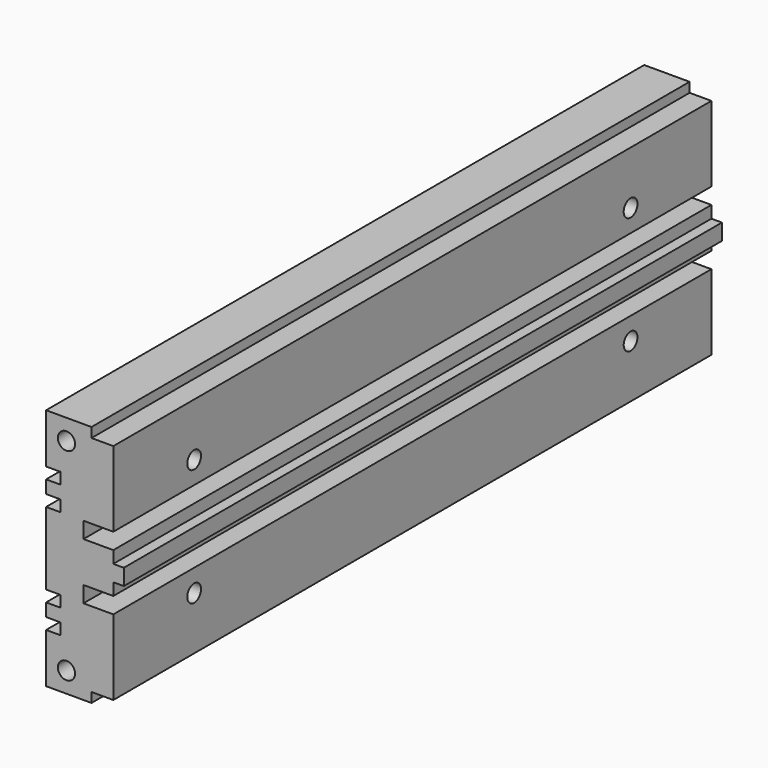
from build123d import *

# Parameters (mm, degrees)
F0_W            = 12.2174
F0_H            = 38.1762
F1_DEPTH        = 117.475
F2_W            = 2.286
F2_H            = 1.778
F3_DEPTH        = 117.476
F5_DEPTH        = 117.476
F7_D            = 2.7051
F10_D           = 2.7051
F10_DEPTH       = 5.55625
F10_TIP         = 0.8126940303
F10_ON_F9_D     = 2.7051
F10_ON_F9_DEPTH = 5.55625
F10_ON_F9_TIP   = 0.8126940303


with BuildPart() as f1:
    # F0 (on Front) → F1 (new body)
    with BuildSketch(Plane.XZ):
        with Locations((6.1087, 19.0881)):
            Rectangle(F0_W, F0_H)
    extrude(amount=F1_DEPTH)

    # F2 (on face) → F3 (cut, through all)
    with BuildSketch(Plane.XZ.offset(117.475)):
        with Locations((1.143, 29.5021)):
            Rectangle(F2_W, F2_H)
        with Locations((1.143, 25.6921)):
            Rectangle(F2_W, F2_H)
        with Locations((1.143, 8.6741)):
            Rectangle(F2_W, F2_H)
        with Locations((1.143, 12.4841)):
            Rectangle(F2_W, F2_H)
    extrude(amount=-F3_DEPTH, mode=Mode.SUBTRACT)

    # F4 (on face) → F5 (cut, through all)
    with BuildSketch(Plane.XZ.offset(117.475)):
        Polygon((10.5664, 20.3581), (12.2174, 20.3581), (12.2174, 38.1762), (7.1374, 38.1762), (7.1374, 36.6522), (10.5664, 36.6522), (10.5664, 24.8031), (5.8674, 24.8031), (5.8674, 22.2631), (10.5664, 22.2631), align=None)
        Polygon((10.5664, 13.3731), (10.5664, 1.524), (7.1374, 1.524), (7.1374, 0), (12.2174, 0), (12.2174, 17.8181), (10.5664, 17.8181), (10.5664, 15.9131), (5.8674, 15.9131), (5.8674, 13.3731), align=None)
    extrude(amount=-F5_DEPTH, mode=Mode.SUBTRACT)

    # F7 (through all)
    with Locations(Plane.XZ.offset(117.475)):
        with Locations((3.2004, 34.9631), (3.2004, 3.2131)):
            Hole(F7_D / 2)

    # F10
    with Locations(Plane.YZ.offset(10.5664)):
        with Locations((-101.6, 28.3083), (-15.875, 28.3083)):
            Hole(F10_D / 2, depth=F10_DEPTH)
            with Locations((0, 0, -(F10_DEPTH + F10_TIP / 2))):  # 118° drill point
                Cone(0, F10_D / 2, F10_TIP, mode=Mode.SUBTRACT)

    # F10 on F9
    with Locations(Plane.YZ.offset(10.5664)):
        with Locations((-15.875, 9.8679), (-101.6, 9.8679)):
            Hole(F10_ON_F9_D / 2, depth=F10_ON_F9_DEPTH)
            with Locations((0, 0, -(F10_ON_F9_DEPTH + F10_ON_F9_TIP / 2))):  # 118° drill point
                Cone(0, F10_ON_F9_D / 2, F10_ON_F9_TIP, mode=Mode.SUBTRACT)


solid = f1.part
